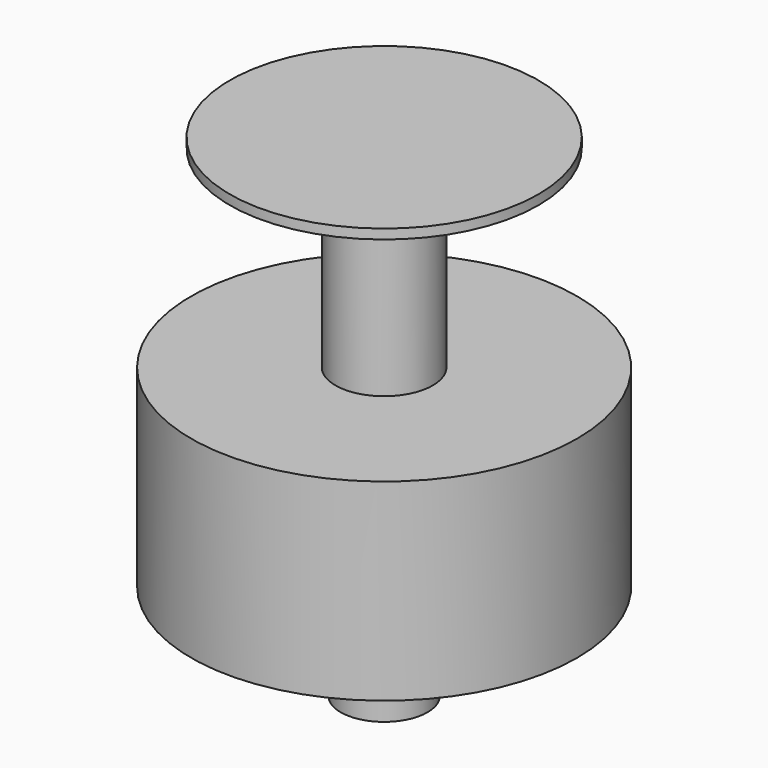
from build123d import *

# Parameters (mm, degrees)
F0_R     = 12.7
F1_DEPTH = 12.7
F2_R     = 3.20606
F3_DEPTH = 12.7
F4_R     = 10.16
F5_DEPTH = 0.635
F6_R     = 2.86289
F7_DEPTH = 6.35


with BuildPart() as f1:
    # F0 (on Top) → F1 (new body)
    with BuildSketch(Plane.XY):
        Circle(F0_R)
    extrude(amount=F1_DEPTH)

    # F2 (on face) → F3 (join)
    with BuildSketch(Plane.XY.offset(12.7)):
        Circle(F2_R)
    extrude(amount=F3_DEPTH)

    # F4 (on face) → F5 (join)
    with BuildSketch(Plane.XY.offset(25.4)):
        Circle(F4_R)
    extrude(amount=F5_DEPTH)

    # F6 (on face) → F7 (join)
    with BuildSketch(Plane(origin=(0, 0, 0), x_dir=(1, 0, 0), z_dir=(0, 0, -1))):
        Circle(F6_R)
    extrude(amount=F7_DEPTH)


solid = f1.part
